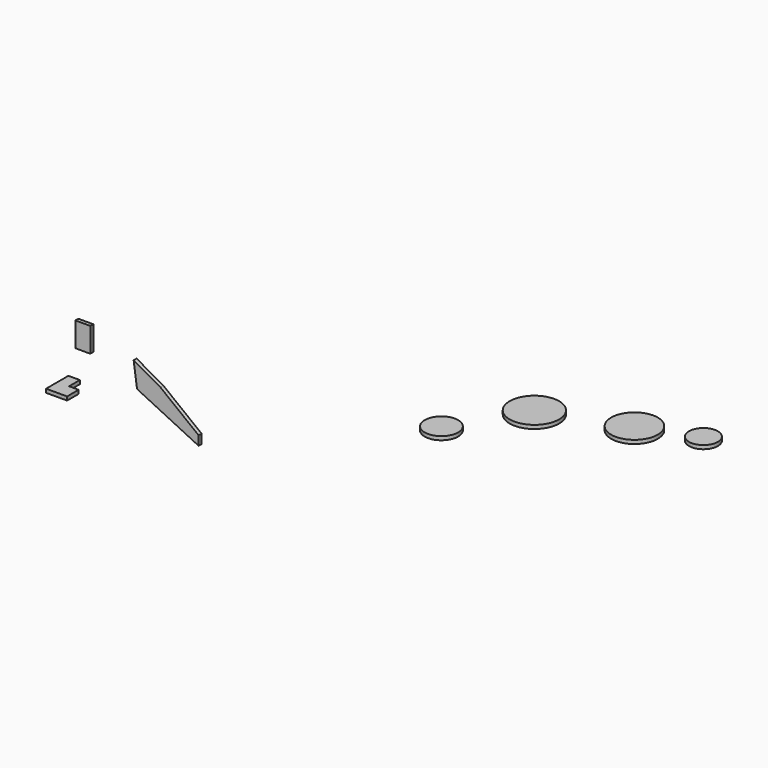
from build123d import *

# Parameters (mm, degrees)
F0_W     = 79.07515
F0_H     = 26.642554
F0_H_2   = 66.393085
F1_DEPTH = 25.4
F2_W     = 51.173338
F2_H     = 56.635827
F2_W_2   = 51.409009
F2_H_2   = 112.238943
F3_DEPTH = 25.4
F5_DEPTH = 25.4
F6_R     = 170.438815
F6_R_2   = 160.505994
F6_R_3   = 115.363138
F6_R_4   = 99.638686
F7_DEPTH = 25.4


with BuildPart() as f1:
    # F0 (on Top) → F1 (new body)
    with BuildSketch(Plane.XY):
        Polygon((-168.34414, -26.642554), (-168.34414, -125.920385), (-23.529731, -125.920385), (-23.529731, -26.642554), (-89.26899, -26.642554), align=None)
        with Locations((-128.806565, -13.321277)):
            Rectangle(F0_W, F0_H)
        with Locations((-128.806565, 33.196542)):
            Rectangle(F0_W, F0_H_2)
    extrude(amount=F1_DEPTH)


with BuildPart() as f3:
    # F2 (on Front) → F3 (new body)
    with BuildSketch(Plane.XZ):
        with Locations((-20.872004, 297.575579)):
            Rectangle(F2_W, F2_H)
        with Locations((30.419169, 297.575579)):
            Rectangle(F2_W_2, F2_H)
        with Locations((-20.872004, 382.012963)):
            Rectangle(F2_W, F2_H_2)
        with Locations((30.419169, 382.012963)):
            Rectangle(F2_W_2, F2_H_2)
    extrude(amount=F3_DEPTH)


with BuildPart() as f5:
    # F4 (on Front) → F5 (new body)
    with BuildSketch(Plane.XZ):
        Polygon((538.567483, 223.400995), (354.655534, 327.100605), (377.99108, 160.137326), (802.676916, -46.682347), (802.676916, 16.942477), (538.567483, 148.019239), align=None)
        Polygon((802.676916, 16.942477), (538.567483, 223.400995), (538.567483, 148.019239), align=None)
    extrude(amount=F5_DEPTH)


with BuildPart() as f7:
    # F6 (on Top) → F7 (new body)
    with BuildSketch(Plane.XY):
        with Locations((2040.66968, 1319.009781)):
            Circle(F6_R)
        with Locations((2576.43342, 1511.156678)):
            Circle(F6_R_2)
        with Locations((1766.34264, 861.064613)):
            Circle(F6_R_3)
        with Locations((2942.310095, 1648.065329)):
            Circle(F6_R_4)
    extrude(amount=F7_DEPTH)


solid = Compound([f1.part, f3.part, f5.part, f7.part])
